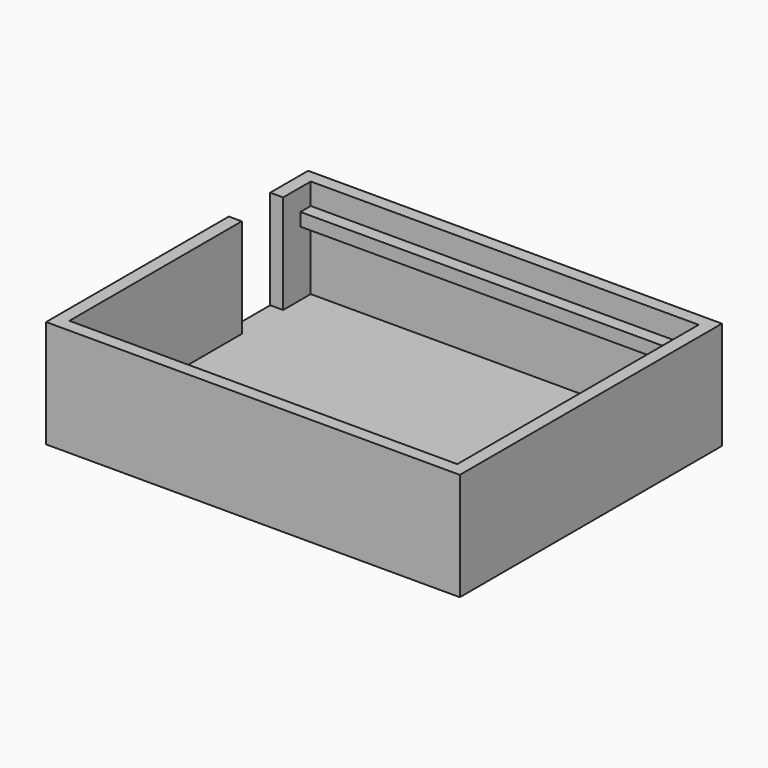
from build123d import *

# Parameters (mm, degrees)
PAD_DEPTH    = 25
SKETCH001_W  = 96
SKETCH001_H  = 76
PAD001_DEPTH = 2
SKETCH002_W  = 96
SKETCH002_H  = 3
PAD002_DEPTH = 3
SKETCH003_W  = 96
SKETCH003_H  = 3
PAD003_DEPTH = 3


with BuildPart() as part:
    # Sketch → Pad (new body)
    with BuildSketch(Plane.XY):
        Polygon((0, 0), (96, 0), (96, 76), (0, 76), (0, 65), (3, 65), (3, 73), (93, 73), (93, 3), (3, 3), (3, 53), (0, 53), align=None)
    extrude(amount=PAD_DEPTH)

    # Sketch001 → Pad001 (join)
    with BuildSketch(Plane.XY):
        with Locations((48, 38)):
            Rectangle(SKETCH001_W, SKETCH001_H)
    extrude(amount=PAD001_DEPTH)

    # Sketch002 → Pad002 (join)
    with BuildSketch(Plane.XY.offset(16)):
        with Locations((48, 4.5)):
            Rectangle(SKETCH002_W, SKETCH002_H)
    extrude(amount=PAD002_DEPTH)

    # Sketch003 → Pad003 (join)
    with BuildSketch(Plane.XY.offset(17)):
        with Locations((48, 71.5)):
            Rectangle(SKETCH003_W, SKETCH003_H)
    extrude(amount=PAD003_DEPTH)


solid = part.part
